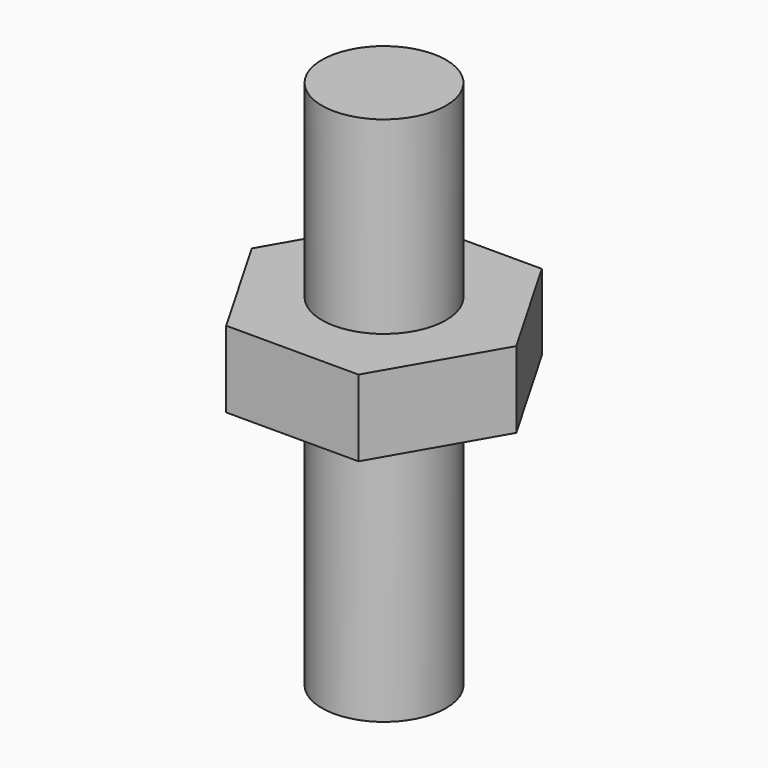
from build123d import *

# Parameters (mm, degrees)
F0_R          = 2.6
F1_DEPTH      = 3.2
F2_DEPTH      = 11.1125
F2_DEPTH_BACK = 11.1125


with BuildPart() as f1:
    # F0 (on Top) → F1 (new body)
    with BuildSketch(Plane.XY):
        Polygon((2.771281, 4.8), (-2.771281, 4.8), (-5.542563, 0), (-2.771281, -4.8), (2.771281, -4.8), (5.542563, 0), align=None)
        Circle(F0_R, mode=Mode.SUBTRACT)
        Circle(F0_R)
    extrude(amount=F1_DEPTH)

    # F0 (on Top) → F2 (join, two sides)
    with BuildSketch(Plane.XY) as f2_sk:
        Circle(F0_R)
    extrude(amount=F2_DEPTH)
    extrude(f2_sk.sketch, amount=-F2_DEPTH_BACK)


solid = f1.part
